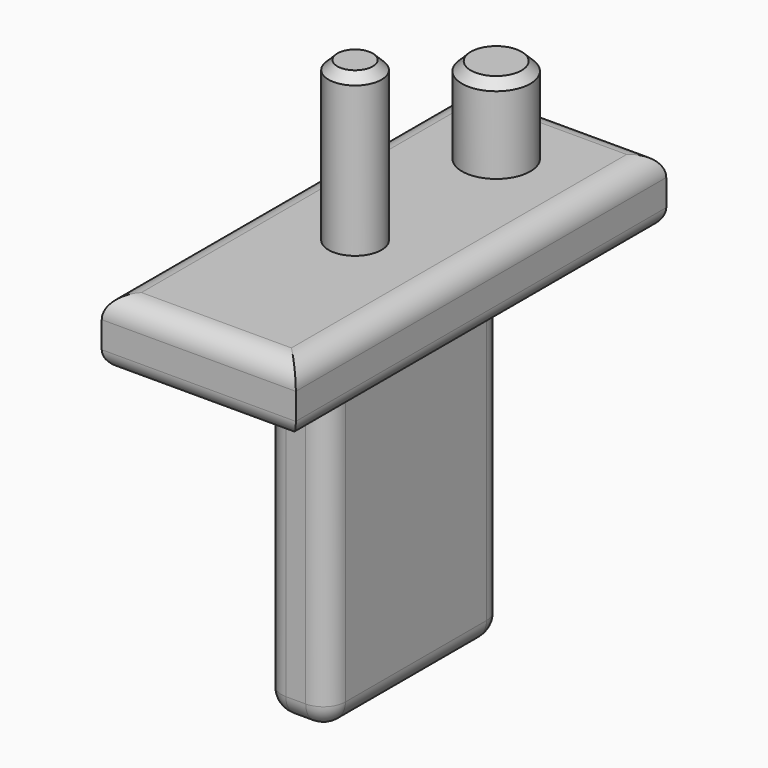
from build123d import *

# Parameters (mm, degrees)
F0_W     = 11.176
F0_H     = 26.67
F1_DEPTH = 3.81
F2_R     = 1.9685
F3_DEPTH = 4.953
F2_R_2   = 1.524
F4_DEPTH = 9.144
F5_SIZE  = 0.508
F6_R     = 1.27
F7_R     = 1.016
F8_W     = 3.683
F8_H     = 12.7
F9_DEPTH = 19.05
F10_R    = 1.27


with BuildPart() as f1:
    # F0 (on Top) → F1 (new body)
    with BuildSketch(Plane.XY):
        Rectangle(F0_W, F0_H)
    extrude(amount=F1_DEPTH)

    # F2 (on face) → F3 (join)
    with BuildSketch(Plane.XY.offset(3.81)):
        with Locations((0, 8.0772)):
            Circle(F2_R)
    extrude(amount=F3_DEPTH)

    # F2 (on face) → F4 (join)
    with BuildSketch(Plane.XY.offset(3.81)):
        with Locations((0, -2.0828)):
            Circle(F2_R_2)
    extrude(amount=F4_DEPTH)

    # F5
    f5_edges = [f1.edges().sort_by_distance(p)[0] for p in [
        (-1.9685, 8.0772, 8.763),
        (-1.524, -2.0828, 12.954),
    ]]
    chamfer(f5_edges, length=F5_SIZE)

    # F6
    f6_edges = [f1.edges().sort_by_distance(p)[0] for p in [
        (0, 13.335, 3.81),
        (5.588, 0, 3.81),
        (0, -13.335, 3.81),
        (-5.588, 0, 3.81),
    ]]
    fillet(f6_edges, radius=F6_R)

    # F7
    f7_edges = [f1.edges().sort_by_distance(p)[0] for p in [
        (0, 13.335, 0),
        (5.588, 0, 0),
        (0, -13.335, 0),
        (-5.588, 0, 0),
    ]]
    fillet(f7_edges, radius=F7_R)

    # F8 (on face) → F9 (join)
    with BuildSketch(Plane(origin=(0, 0, 0), x_dir=(1, 0, 0), z_dir=(0, 0, -1))):
        Rectangle(F8_W, F8_H)
    extrude(amount=F9_DEPTH)

    # F10
    f10_edges = [f1.edges().sort_by_distance(p)[0] for p in [
        (0, -6.35, -19.05),
        (-1.8415, 0, -19.05),
        (1.8415, 0, -19.05),
        (0, 6.35, -19.05),
        (-1.8415, -6.35, -9.525),
        (1.8415, -6.35, -9.525),
        (1.8415, 6.35, -9.525),
        (-1.8415, 6.35, -9.525),
    ]]
    fillet(f10_edges, radius=F10_R)


solid = f1.part
